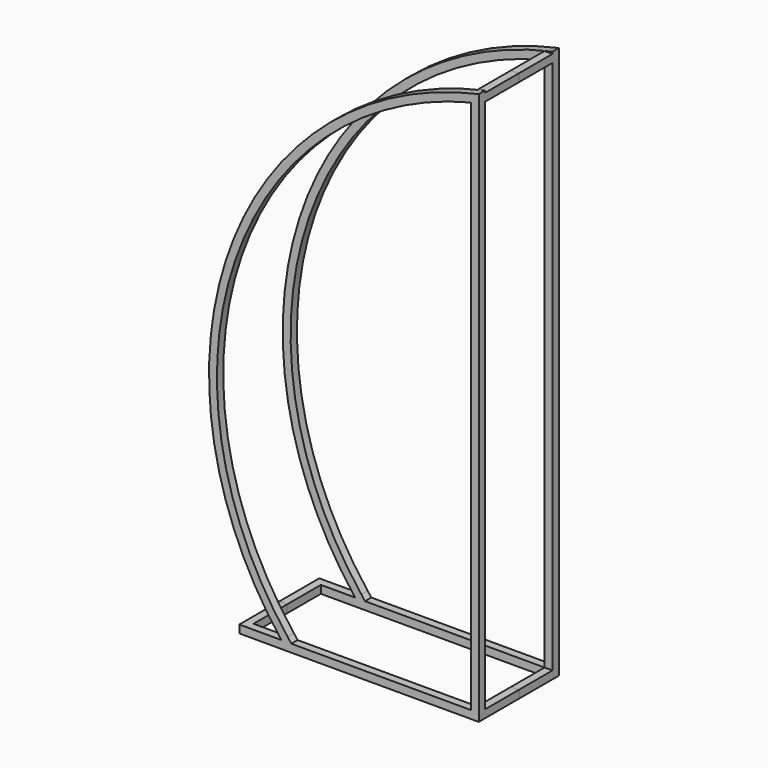
from build123d import *

# Parameters (mm, degrees)
F1_START = 160
F1_DEPTH = 30
F2_W     = 30
F2_H     = 30
F3_DEPTH = 160


with BuildPart() as f1:
    # F0 (on Front) → F1 (new body)
    with BuildSketch(Plane.XZ.offset(F1_START)):
        with BuildLine():
            Line((-650.0211620331, -958.0111538821), (-650.0211620331, 1141.9888461179))
            ThreePointArc((-650.0211620331, 1141.9888461179), (-1597.1422833013, 314.279107447), (-1400.0211620331, -928.0111538821))
            Line((-1400.0211620331, -928.0111538821), (-1560.0211620331, -928.0111538821))
            Line((-1560.0211620331, -928.0111538821), (-1560.0211620331, -958.0111538821))
            Line((-1560.0211620331, -958.0111538821), (-650.0211620331, -958.0111538821))
        make_face()
        with BuildLine():
            ThreePointArc((-1376.3643922457, -909.5623803937), (-1575.1632376188, 286.4717059252), (-680.0211620331, 1104.2364527042))
            Line((-680.0211620331, 1104.2364527042), (-680.0211620331, -928.0111538821))
            Line((-680.0211620331, -928.0111538821), (-1362.1972346828, -928.0111538821))
            ThreePointArc((-1362.1972346828, -928.0111538821), (-1369.3221564788, -918.8185152105), (-1376.3643922457, -909.5623803937))
        make_face(mode=Mode.SUBTRACT)
    extrude(amount=F1_DEPTH)

    # F2 (on face) → F3 (join)
    with BuildSketch(Plane(origin=(0, -160, 0), x_dir=(-1, 0, 0), z_dir=(0, 1, 0))):
        with Locations((1545.0211620331, -943.0111538821)):
            Rectangle(F2_W, F2_H)
        with Locations((665.0211620331, -943.0111538821)):
            Rectangle(F2_W, F2_H)
        with Locations((665.0211620331, 1119.2364527042)):
            Rectangle(F2_W, F2_H)
    extrude(amount=F3_DEPTH)


with BuildPart() as f4_1:
    # F4: instance of F1
    add(f1.part.mirror(Plane.XZ))


solid = Compound([f1.part, f4_1.part])
